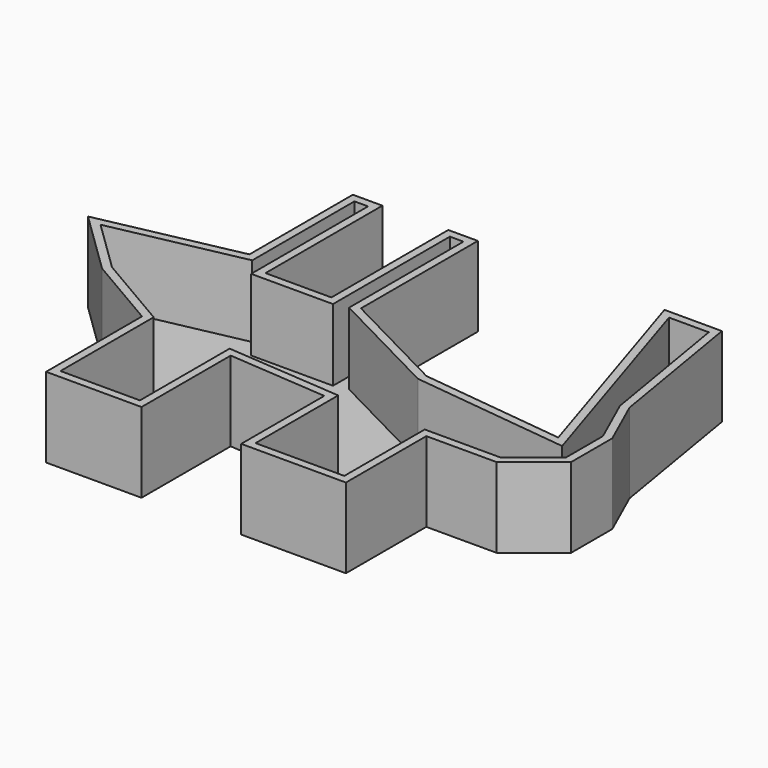
from build123d import *

# Parameters (mm, degrees)
F1_DEPTH = 25.4
F2_T     = -2.54


with BuildPart() as f1:
    # F0 (on Top) → F1 (new body)
    with BuildSketch(Plane.XY):
        Polygon((-40.0050021708, 46.4459620416), (-49.4021475315, 46.4459620416), (-49.4021475315, 5.3670029156), (-93.434497714, -3.7616554182), (-73.2977539301, -23.3614202589), (-49.4021475315, -37.322897464), (-49.4021475315, -75.4484683275), (-19.0627854317, -75.4484683275), (-19.0627854317, -40.0077961385), (12.6190278679, -42.4242056906), (12.6190278679, -75.4484683275), (45.9117777646, -75.4484683275), (45.9117777646, -43.4981659055), (68.1964457035, -43.4981659055), (82.6948955655, -31.9531001151), (82.6948955655, -15.5752124265), (75.7141634822, 0), (67.9279565811, 46.4459620416), (49.6706403792, 46.4459620416), (71.9553008676, -23.6299112439), (25.7750339806, -18.2601120323), (-9.6656382084, 0), (-9.6656382084, 46.4459620416), (-19.0627854317, 46.4459620416), (-19.0627854317, 0), (-40.0050021708, 0), align=None)
    extrude(amount=F1_DEPTH)

    # F2
    f2_openings = [f1.faces().sort_by_distance(p)[0] for p in [
        (-1.371723, -22.717213, 25.4),
    ]]
    offset(amount=F2_T, openings=f2_openings, kind=Kind.INTERSECTION)


solid = f1.part
